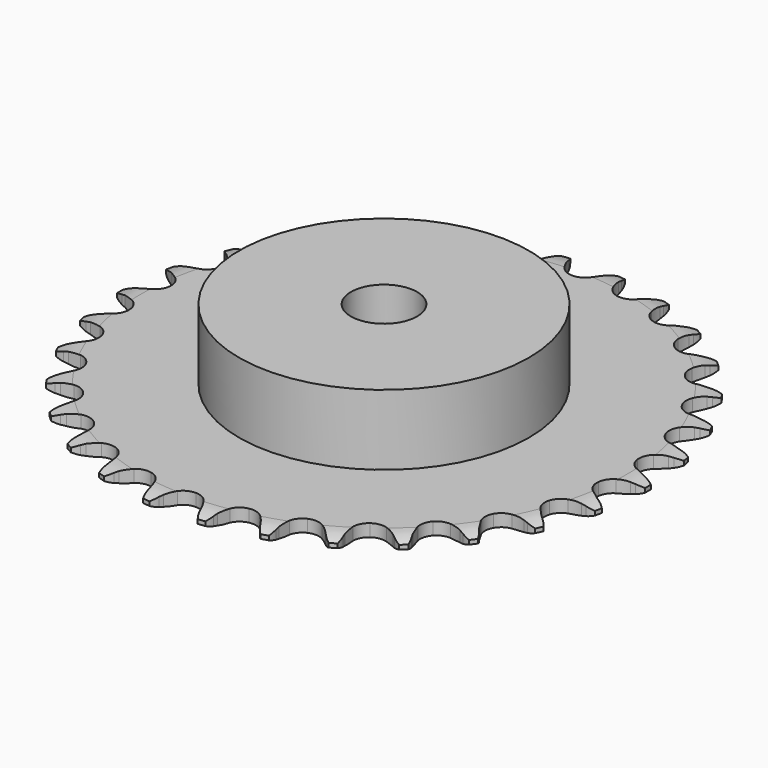
from build123d import *

# Parameters (mm, degrees)
PAD_DEPTH         = 3
SKETCH001_R       = 35
PAD001_DEPTH      = 20
SKETCH002_R       = 8
POCKET_DEPTH      = 0.0010001
POCKET_DEPTH_BACK = 20.001


with BuildPart() as part:
    # Sprocket → Pad (new body)
    with BuildSketch(Plane.XY):
        with BuildLine():
            ThreePointArc((-6.7776041953, 64.484596441), (-5.6654180492, 63.2960334738), (-4.8942777403, 61.862512433))
            Line((-4.8942777403, 61.862512433), (-4.5163646283, 60.8711255593))
            ThreePointArc((-4.5163646283, 60.8711255593), (-3.9162319, 59.5782502701), (-3.1406141774, 58.3823811496))
            ThreePointArc((-3.1406141774, 58.3823811496), (-1.7546617451, 57.2296966791), (0, 56.8165286828))
            ThreePointArc((0, 56.8165286828), (1.7546617451, 57.2296966791), (3.1406141774, 58.3823811496))
            ThreePointArc((3.1406141774, 58.3823811496), (3.9162319, 59.5782502701), (4.5163646283, 60.8711255593))
            Line((4.5163646283, 60.8711255593), (4.8942777403, 61.862512433))
            ThreePointArc((4.8942777403, 61.862512433), (5.6654180492, 63.2960334738), (6.7776041953, 64.484596441))
            ThreePointArc((6.7776041953, 64.484596441), (7.6183702696, 63.0907699242), (8.0746135292, 61.528245672))
            Line((8.0746135292, 61.528245672), (8.2381474118, 60.479950426))
            ThreePointArc((8.2381474118, 60.479950426), (8.5563619127, 59.0905529536), (9.0663953564, 57.7595564504))
            ThreePointArc((9.0663953564, 57.7595564504), (10.1824048255, 56.3439051876), (11.8128205448, 55.5749512131))
            ThreePointArc((11.8128205448, 55.5749512131), (13.6150411776, 55.6142758072), (15.2103638012, 56.4536156428))
            Line((15.2103638012, 56.4536156428), (17.0734898622, 58.6019404136))
            ThreePointArc((17.0734898622, 58.6019404136), (17.3497056492, 59.0550568579), (17.6492655872, 59.4930905514))
            ThreePointArc((17.6492655872, 59.4930905514), (18.7016004136, 60.7349566326), (20.0365987601, 61.6663101451))
            ThreePointArc((20.0365987601, 61.6663101451), (20.5691992506, 60.1281369857), (20.6906054412, 58.5048993299))
            Line((20.6906054412, 58.5048993299), (20.632612879, 57.4455112441))
            ThreePointArc((20.632612879, 57.4455112441), (20.6550016519, 56.020314925), (20.8771599076, 54.6123619733))
            ThreePointArc((20.8771599076, 54.6123619733), (21.6744514446, 52.9956146714), (23.1093641476, 51.9044816972))
            ThreePointArc((23.1093641476, 51.9044816972), (24.8803779785, 51.5682442155), (26.6153475395, 52.0575562379))
            Line((26.6153475395, 52.0575562379), (28.8844216614, 53.7715692685))
            ThreePointArc((28.8844216614, 53.7715692685), (29.2488096769, 54.15735554), (29.6328958373, 54.5235351332))
            ThreePointArc((29.6328958373, 54.5235351332), (30.9204330997, 55.5194707478), (32.4198978128, 56.152910188))
            ThreePointArc((32.4198978128, 56.152910188), (32.6210555225, 54.5376159342), (32.4023186108, 52.9246081494))
            Line((32.4023186108, 52.9246081494), (32.1253341571, 51.9004275667))
            ThreePointArc((32.1253341571, 51.9004275667), (31.8509187051, 50.501720319), (31.7754923912, 49.0783452187))
            ThreePointArc((31.7754923912, 49.0783452187), (32.21922053, 47.3311614929), (33.3959176462, 45.9655372657))
            ThreePointArc((33.3959176462, 45.9655372657), (35.0583228723, 45.2684328998), (36.8571128757, 45.3863318255))
            Line((36.8571128757, 45.3863318255), (39.4329656313, 46.5911225217))
            ThreePointArc((39.4329656313, 46.5911225217), (39.8696003703, 46.8927179092), (40.3214263449, 47.1710395967))
            ThreePointArc((40.3214263449, 47.1710395967), (41.7878944866, 47.8775175794), (43.3862917632, 48.1853586042))
            ThreePointArc((43.3862917632, 48.1853586042), (43.2472151348, 46.5635393659), (42.6978949736, 45.0312576323))
            Line((42.6978949736, 45.0312576323), (42.2140241781, 44.0870461587))
            ThreePointArc((42.2140241781, 44.0870461587), (41.6547977733, 42.7759582009), (41.2850833815, 41.399369274))
            ThreePointArc((41.2850833815, 41.399369274), (41.3558550733, 39.598109437), (42.2229092922, 38.0176782887))
            ThreePointArc((42.2229092922, 38.0176782887), (43.7040508282, 36.9901738443), (45.4880455192, 36.7315069246))
            Line((45.4880455192, 36.7315069246), (48.2580997826, 37.3744201518))
            ThreePointArc((48.2580997826, 37.3744201518), (48.7478982119, 37.5786434896), (49.2477170376, 37.756943278))
            ThreePointArc((49.2477170376, 37.756943278), (50.8290243638, 38.143087151), (52.456496573, 38.1118756304))
            ThreePointArc((52.456496573, 38.1118756304), (51.9832639225, 36.5544126906), (51.1273684388, 35.1698250727))
            Line((51.1273684388, 35.1698250727), (50.4577587772, 34.3468492805))
            ThreePointArc((50.4577587772, 34.3468492805), (49.6381622969, 33.1806814475), (48.9903181203, 31.9110422359))
            ThreePointArc((48.9903181203, 31.9110422359), (48.6850403024, 30.1344299859), (49.2045571941, 28.4082643414))
            ThreePointArc((49.2045571941, 28.4082643414), (50.4397020476, 27.0952666932), (52.1309322977, 26.4713389137))
            Line((52.1309322977, 26.4713389137), (54.9741234054, 26.5242762788))
            ThreePointArc((54.9741234054, 26.5242762788), (55.4956789834, 26.6222020271), (56.021646179, 26.6926873602))
            ThreePointArc((56.021646179, 26.6926873602), (57.6486819717, 26.7416207832), (59.2341007683, 26.3727208105))
            ThreePointArc((59.2341007683, 26.3727208105), (58.4473946334, 24.9476827732), (57.3223305669, 23.771302394))
            Line((57.3223305669, 23.771302394), (56.4962471945, 23.1055302742))
            ThreePointArc((56.4962471945, 23.1055302742), (55.4521009378, 22.1352496964), (54.5544408756, 21.0280495259))
            ThreePointArc((54.5544408756, 21.0280495259), (53.8864556537, 19.3537313434), (54.035729837, 17.5572729244))
            ThreePointArc((54.035729837, 17.5572729244), (54.9708962509, 16.0161663702), (56.4954471827, 15.0542463687))
            Line((56.4954471827, 15.0542463687), (59.2875140403, 14.5148942549))
            ThreePointArc((59.2875140403, 14.5148942549), (59.8180322854, 14.5022425886), (60.3471605607, 14.4618329191))
            ThreePointArc((60.3471605607, 14.4618329191), (61.9488155483, 14.1714172667), (63.4228905233, 13.4809515408))
            ThreePointArc((63.4228905233, 13.4809515408), (62.3570937372, 12.2506194063), (61.0120317861, 11.3338597332))
            Line((61.0120317861, 11.3338597332), (60.0655785103, 10.8543887224))
            ThreePointArc((60.0655785103, 10.8543887224), (58.842516679, 10.1224013168), (57.7342727833, 9.2260301478))
            ThreePointArc((57.7342727833, 9.2260301478), (56.7327743169, 7.7271817716), (56.5052817938, 5.9389444314))
            ThreePointArc((56.5052817938, 5.9389444314), (57.0995985084, 4.2370827227), (58.3908399307, 2.9792110192))
            Line((58.3908399307, 2.9792110192), (61.0097558186, 1.8711417018))
            ThreePointArc((61.0097558186, 1.8711417018), (61.5260505379, 1.7484655594), (62.0352144481, 1.5989269838))
            ThreePointArc((62.0352144481, 1.5989269838), (63.5414886221, 0.9818548136), (64.8397956257, 0))
            ThreePointArc((64.8397956257, 0), (63.5414886221, -0.9818548136), (62.0352144481, -1.5989269838))
            Line((62.0352144481, -1.5989269838), (61.0097558186, -1.8711417018))
            ThreePointArc((61.0097558186, -1.8711417018), (59.6612320836, -2.332844573), (58.3908399307, -2.9792110192))
            ThreePointArc((58.3908399307, -2.9792110192), (57.0995985084, -4.2370827227), (56.5052817938, -5.9389444314))
            ThreePointArc((56.5052817938, -5.9389444314), (56.7327743169, -7.7271817716), (57.7342727833, -9.2260301478))
            Line((57.7342727833, -9.2260301478), (60.0655785103, -10.8543887224))
            ThreePointArc((60.0655785103, -10.8543887224), (60.545085147, -11.0817278048), (61.0120317861, -11.3338597332))
            ThreePointArc((61.0120317861, -11.3338597332), (62.3570937372, -12.2506194063), (63.4228905233, -13.4809515408))
            ThreePointArc((63.4228905233, -13.4809515408), (61.9488155483, -14.1714172667), (60.3471605607, -14.4618329191))
            Line((60.3471605607, -14.4618329191), (59.2875140403, -14.5148942549))
            ThreePointArc((59.2875140403, -14.5148942549), (57.8724653598, -14.6861339608), (56.4954471827, -15.0542463687))
            ThreePointArc((56.4954471827, -15.0542463687), (54.9708962509, -16.0161663702), (54.035729837, -17.5572729244))
            ThreePointArc((54.035729837, -17.5572729244), (53.8864556537, -19.3537313434), (54.5544408756, -21.0280495259))
            Line((54.5544408756, -21.0280495259), (56.4962471945, -23.1055302742))
            ThreePointArc((56.4962471945, -23.1055302742), (56.9180090077, -23.4275964879), (57.3223305669, -23.771302394))
            ThreePointArc((57.3223305669, -23.771302394), (58.4473946334, -24.9476827732), (59.2341007683, -26.3727208105))
            ThreePointArc((59.2341007683, -26.3727208105), (57.6486819717, -26.7416207832), (56.021646179, -26.6926873602))
            Line((56.021646179, -26.6926873602), (54.9741234054, -26.5242762788))
            ThreePointArc((54.9741234054, -26.5242762788), (53.5543941969, -26.3975688225), (52.1309322977, -26.4713389137))
            ThreePointArc((52.1309322977, -26.4713389137), (50.4397020476, -27.0952666932), (49.2045571941, -28.4082643414))
            ThreePointArc((49.2045571941, -28.4082643414), (48.6850403024, -30.1344299859), (48.9903181203, -31.9110422359))
            Line((48.9903181203, -31.9110422359), (50.4577587772, -34.3468492805))
            ThreePointArc((50.4577587772, -34.3468492805), (50.8033427519, -34.7495667863), (51.1273684388, -35.1698250727))
            ThreePointArc((51.1273684388, -35.1698250727), (51.9832639225, -36.5544126906), (52.456496573, -38.1118756304))
            ThreePointArc((52.456496573, -38.1118756304), (50.8290243638, -38.143087151), (49.2477170376, -37.756943278))
            Line((49.2477170376, -37.756943278), (48.2580997826, -37.3744201518))
            ThreePointArc((48.2580997826, -37.3744201518), (46.8957390251, -36.9553032572), (45.4880455192, -36.7315069246))
            ThreePointArc((45.4880455192, -36.7315069246), (43.7040508282, -36.9901738443), (42.2229092922, -38.0176782887))
            ThreePointArc((42.2229092922, -38.0176782887), (41.3558550733, -39.598109437), (41.2850833815, -41.399369274))
            Line((41.2850833815, -41.399369274), (42.2140241781, -44.0870461587))
            ThreePointArc((42.2140241781, -44.0870461587), (42.4683266363, -44.5528142693), (42.6978949736, -45.0312576323))
            ThreePointArc((42.6978949736, -45.0312576323), (43.2472151348, -46.5635393659), (43.3862917632, -48.1853586042))
            ThreePointArc((43.3862917632, -48.1853586042), (41.7878944866, -47.8775175794), (40.3214263449, -47.1710395967))
            Line((40.3214263449, -47.1710395967), (39.4329656313, -46.5911225217))
            ThreePointArc((39.4329656313, -46.5911225217), (38.1875150271, -45.8979136083), (36.8571128757, -45.3863318255))
            ThreePointArc((36.8571128757, -45.3863318255), (35.0583228723, -45.2684328998), (33.3959176462, -45.9655372657))
            ThreePointArc((33.3959176462, -45.9655372657), (32.21922053, -47.3311614929), (31.7754923912, -49.0783452187))
            Line((31.7754923912, -49.0783452187), (32.1253341571, -51.9004275667))
            ThreePointArc((32.1253341571, -51.9004275667), (32.277240861, -52.4088899806), (32.4023186108, -52.9246081494))
            ThreePointArc((32.4023186108, -52.9246081494), (32.6210555225, -54.5376159342), (32.4198978128, -56.152910188))
            ThreePointArc((32.4198978128, -56.152910188), (30.9204330997, -55.5194707478), (29.6328958373, -54.5235351332))
            Line((29.6328958373, -54.5235351332), (28.8844216614, -53.7715692685))
            ThreePointArc((28.8844216614, -53.7715692685), (27.8103133785, -52.834564892), (26.6153475395, -52.0575562379))
            ThreePointArc((26.6153475395, -52.0575562379), (24.8803779785, -51.5682442155), (23.1093641476, -51.9044816972))
            ThreePointArc((23.1093641476, -51.9044816972), (21.6744514446, -52.9956146714), (20.8771599076, -54.6123619733))
            Line((20.8771599076, -54.6123619733), (20.632612879, -57.4455112441))
            ThreePointArc((20.632612879, -57.4455112441), (20.6754847767, -57.974445714), (20.6906054412, -58.5048993299))
            ThreePointArc((20.6906054412, -58.5048993299), (20.5691992506, -60.1281369857), (20.0365987601, -61.6663101451))
            ThreePointArc((20.0365987601, -61.6663101451), (18.7016004136, -60.7349566326), (17.6492655872, -59.4930905514))
            Line((17.6492655872, -59.4930905514), (17.0734898622, -58.6019404136))
            ThreePointArc((17.0734898622, -58.6019404136), (16.2176675865, -57.4620921616), (15.2103638012, -56.4536156428))
            ThreePointArc((15.2103638012, -56.4536156428), (13.6150411776, -55.6142758072), (11.8128205448, -55.5749512131))
            ThreePointArc((11.8128205448, -55.5749512131), (10.1824048255, -56.3439051876), (9.0663953564, -57.7595564504))
            Line((9.0663953564, -57.7595564504), (8.2381474118, -60.479950426))
            ThreePointArc((8.2381474118, -60.479950426), (8.1701107958, -61.0062399774), (8.0746135292, -61.528245672))
            ThreePointArc((8.0746135292, -61.528245672), (7.6183702696, -63.0907699242), (6.7776041953, -64.484596441))
            ThreePointArc((6.7776041953, -64.484596441), (5.6654180492, -63.2960334738), (4.8942777403, -61.862512433))
            Line((4.8942777403, -61.862512433), (4.5163646283, -60.8711255593))
            ThreePointArc((4.5163646283, -60.8711255593), (3.9162319, -59.5782502701), (3.1406141774, -58.3823811496))
            ThreePointArc((3.1406141774, -58.3823811496), (1.7546617451, -57.2296966791), (0, -56.8165286828))
            ThreePointArc((0, -56.8165286828), (-1.7546617451, -57.2296966791), (-3.1406141774, -58.3823811496))
            Line((-3.1406141774, -58.3823811496), (-4.5163646283, -60.8711255593))
            ThreePointArc((-4.5163646283, -60.8711255593), (-4.6923362315, -61.3717688134), (-4.8942777403, -61.862512433))
            ThreePointArc((-4.8942777403, -61.862512433), (-5.6654180492, -63.2960334738), (-6.7776041953, -64.484596441))
            ThreePointArc((-6.7776041953, -64.484596441), (-7.6183702696, -63.0907699242), (-8.0746135292, -61.528245672))
            Line((-8.0746135292, -61.528245672), (-8.2381474118, -60.479950426))
            ThreePointArc((-8.2381474118, -60.479950426), (-8.5563619127, -59.0905529536), (-9.0663953564, -57.7595564504))
            ThreePointArc((-9.0663953564, -57.7595564504), (-10.1824048255, -56.3439051876), (-11.8128205448, -55.5749512131))
            ThreePointArc((-11.8128205448, -55.5749512131), (-13.6150411776, -55.6142758072), (-15.2103638012, -56.4536156428))
            Line((-15.2103638012, -56.4536156428), (-17.0734898622, -58.6019404136))
            ThreePointArc((-17.0734898622, -58.6019404136), (-17.3497056492, -59.0550568579), (-17.6492655872, -59.4930905514))
            ThreePointArc((-17.6492655872, -59.4930905514), (-18.7016004136, -60.7349566326), (-20.0365987601, -61.6663101451))
            ThreePointArc((-20.0365987601, -61.6663101451), (-20.5691992506, -60.1281369857), (-20.6906054412, -58.5048993299))
            Line((-20.6906054412, -58.5048993299), (-20.632612879, -57.4455112441))
            ThreePointArc((-20.632612879, -57.4455112441), (-20.6550016519, -56.020314925), (-20.8771599076, -54.6123619733))
            ThreePointArc((-20.8771599076, -54.6123619733), (-21.6744514446, -52.9956146714), (-23.1093641476, -51.9044816972))
            ThreePointArc((-23.1093641476, -51.9044816972), (-24.8803779785, -51.5682442155), (-26.6153475395, -52.0575562379))
            Line((-26.6153475395, -52.0575562379), (-28.8844216614, -53.7715692685))
            ThreePointArc((-28.8844216614, -53.7715692685), (-29.2488096769, -54.15735554), (-29.6328958373, -54.5235351332))
            ThreePointArc((-29.6328958373, -54.5235351332), (-30.9204330997, -55.5194707478), (-32.4198978128, -56.152910188))
            ThreePointArc((-32.4198978128, -56.152910188), (-32.6210555225, -54.5376159342), (-32.4023186108, -52.9246081494))
            Line((-32.4023186108, -52.9246081494), (-32.1253341571, -51.9004275667))
            ThreePointArc((-32.1253341571, -51.9004275667), (-31.8509187051, -50.501720319), (-31.7754923912, -49.0783452187))
            ThreePointArc((-31.7754923912, -49.0783452187), (-32.21922053, -47.3311614929), (-33.3959176462, -45.9655372657))
            ThreePointArc((-33.3959176462, -45.9655372657), (-35.0583228723, -45.2684328998), (-36.8571128757, -45.3863318255))
            Line((-36.8571128757, -45.3863318255), (-39.4329656313, -46.5911225217))
            ThreePointArc((-39.4329656313, -46.5911225217), (-39.8696003703, -46.8927179092), (-40.3214263449, -47.1710395967))
            ThreePointArc((-40.3214263449, -47.1710395967), (-41.7878944866, -47.8775175794), (-43.3862917632, -48.1853586042))
            ThreePointArc((-43.3862917632, -48.1853586042), (-43.2472151348, -46.5635393659), (-42.6978949736, -45.0312576323))
            Line((-42.6978949736, -45.0312576323), (-42.2140241781, -44.0870461587))
            ThreePointArc((-42.2140241781, -44.0870461587), (-41.6547977733, -42.7759582009), (-41.2850833815, -41.399369274))
            ThreePointArc((-41.2850833815, -41.399369274), (-41.3558550733, -39.598109437), (-42.2229092922, -38.0176782887))
            ThreePointArc((-42.2229092922, -38.0176782887), (-43.7040508282, -36.9901738443), (-45.4880455192, -36.7315069246))
            Line((-45.4880455192, -36.7315069246), (-48.2580997826, -37.3744201518))
            ThreePointArc((-48.2580997826, -37.3744201518), (-48.7478982119, -37.5786434896), (-49.2477170376, -37.756943278))
            ThreePointArc((-49.2477170376, -37.756943278), (-50.8290243638, -38.143087151), (-52.456496573, -38.1118756304))
            ThreePointArc((-52.456496573, -38.1118756304), (-51.9832639225, -36.5544126906), (-51.1273684388, -35.1698250727))
            Line((-51.1273684388, -35.1698250727), (-50.4577587772, -34.3468492805))
            ThreePointArc((-50.4577587772, -34.3468492805), (-49.6381622969, -33.1806814475), (-48.9903181203, -31.9110422359))
            ThreePointArc((-48.9903181203, -31.9110422359), (-48.6850403024, -30.1344299859), (-49.2045571941, -28.4082643414))
            ThreePointArc((-49.2045571941, -28.4082643414), (-50.4397020476, -27.0952666932), (-52.1309322977, -26.4713389137))
            Line((-52.1309322977, -26.4713389137), (-54.9741234054, -26.5242762788))
            ThreePointArc((-54.9741234054, -26.5242762788), (-55.4956789834, -26.6222020271), (-56.021646179, -26.6926873602))
            ThreePointArc((-56.021646179, -26.6926873602), (-57.6486819717, -26.7416207832), (-59.2341007683, -26.3727208105))
            ThreePointArc((-59.2341007683, -26.3727208105), (-58.4473946334, -24.9476827732), (-57.3223305669, -23.771302394))
            Line((-57.3223305669, -23.771302394), (-56.4962471945, -23.1055302742))
            ThreePointArc((-56.4962471945, -23.1055302742), (-55.4521009378, -22.1352496964), (-54.5544408756, -21.0280495259))
            ThreePointArc((-54.5544408756, -21.0280495259), (-53.8864556537, -19.3537313434), (-54.035729837, -17.5572729244))
            ThreePointArc((-54.035729837, -17.5572729244), (-54.9708962509, -16.0161663702), (-56.4954471827, -15.0542463687))
            Line((-56.4954471827, -15.0542463687), (-59.2875140403, -14.5148942549))
            ThreePointArc((-59.2875140403, -14.5148942549), (-59.8180322854, -14.5022425886), (-60.3471605607, -14.4618329191))
            ThreePointArc((-60.3471605607, -14.4618329191), (-61.9488155483, -14.1714172667), (-63.4228905233, -13.4809515408))
            ThreePointArc((-63.4228905233, -13.4809515408), (-62.3570937372, -12.2506194063), (-61.0120317861, -11.3338597332))
            Line((-61.0120317861, -11.3338597332), (-60.0655785103, -10.8543887224))
            ThreePointArc((-60.0655785103, -10.8543887224), (-58.842516679, -10.1224013168), (-57.7342727833, -9.2260301478))
            ThreePointArc((-57.7342727833, -9.2260301478), (-56.7327743169, -7.7271817716), (-56.5052817938, -5.9389444314))
            ThreePointArc((-56.5052817938, -5.9389444314), (-57.0995985084, -4.2370827227), (-58.3908399307, -2.9792110192))
            Line((-58.3908399307, -2.9792110192), (-61.0097558186, -1.8711417018))
            ThreePointArc((-61.0097558186, -1.8711417018), (-61.5260505379, -1.7484655594), (-62.0352144481, -1.5989269838))
            ThreePointArc((-62.0352144481, -1.5989269838), (-63.5414886221, -0.9818548136), (-64.8397956257, 0))
            ThreePointArc((-64.8397956257, 0), (-63.5414886221, 0.9818548136), (-62.0352144481, 1.5989269838))
            Line((-62.0352144481, 1.5989269838), (-61.0097558186, 1.8711417018))
            ThreePointArc((-61.0097558186, 1.8711417018), (-59.6612320836, 2.332844573), (-58.3908399307, 2.9792110192))
            ThreePointArc((-58.3908399307, 2.9792110192), (-57.0995985084, 4.2370827227), (-56.5052817938, 5.9389444314))
            ThreePointArc((-56.5052817938, 5.9389444314), (-56.7327743169, 7.7271817716), (-57.7342727833, 9.2260301478))
            Line((-57.7342727833, 9.2260301478), (-60.0655785103, 10.8543887224))
            ThreePointArc((-60.0655785103, 10.8543887224), (-60.545085147, 11.0817278048), (-61.0120317861, 11.3338597332))
            ThreePointArc((-61.0120317861, 11.3338597332), (-62.3570937372, 12.2506194063), (-63.4228905233, 13.4809515408))
            ThreePointArc((-63.4228905233, 13.4809515408), (-61.9488155483, 14.1714172667), (-60.3471605607, 14.4618329191))
            Line((-60.3471605607, 14.4618329191), (-59.2875140403, 14.5148942549))
            ThreePointArc((-59.2875140403, 14.5148942549), (-57.8724653598, 14.6861339608), (-56.4954471827, 15.0542463687))
            ThreePointArc((-56.4954471827, 15.0542463687), (-54.9708962509, 16.0161663702), (-54.035729837, 17.5572729244))
            ThreePointArc((-54.035729837, 17.5572729244), (-53.8864556537, 19.3537313434), (-54.5544408756, 21.0280495259))
            Line((-54.5544408756, 21.0280495259), (-56.4962471945, 23.1055302742))
            ThreePointArc((-56.4962471945, 23.1055302742), (-56.9180090077, 23.4275964879), (-57.3223305669, 23.771302394))
            ThreePointArc((-57.3223305669, 23.771302394), (-58.4473946334, 24.9476827732), (-59.2341007683, 26.3727208105))
            ThreePointArc((-59.2341007683, 26.3727208105), (-57.6486819717, 26.7416207832), (-56.021646179, 26.6926873602))
            Line((-56.021646179, 26.6926873602), (-54.9741234054, 26.5242762788))
            ThreePointArc((-54.9741234054, 26.5242762788), (-53.5543941969, 26.3975688225), (-52.1309322977, 26.4713389137))
            ThreePointArc((-52.1309322977, 26.4713389137), (-50.4397020476, 27.0952666932), (-49.2045571941, 28.4082643414))
            ThreePointArc((-49.2045571941, 28.4082643414), (-48.6850403024, 30.1344299859), (-48.9903181203, 31.9110422359))
            Line((-48.9903181203, 31.9110422359), (-50.4577587772, 34.3468492805))
            ThreePointArc((-50.4577587772, 34.3468492805), (-50.8033427519, 34.7495667863), (-51.1273684388, 35.1698250727))
            ThreePointArc((-51.1273684388, 35.1698250727), (-51.9832639225, 36.5544126906), (-52.456496573, 38.1118756304))
            ThreePointArc((-52.456496573, 38.1118756304), (-50.8290243638, 38.143087151), (-49.2477170376, 37.756943278))
            Line((-49.2477170376, 37.756943278), (-48.2580997826, 37.3744201518))
            ThreePointArc((-48.2580997826, 37.3744201518), (-46.8957390251, 36.9553032572), (-45.4880455192, 36.7315069246))
            ThreePointArc((-45.4880455192, 36.7315069246), (-43.7040508282, 36.9901738443), (-42.2229092922, 38.0176782887))
            ThreePointArc((-42.2229092922, 38.0176782887), (-41.3558550733, 39.598109437), (-41.2850833815, 41.399369274))
            Line((-41.2850833815, 41.399369274), (-42.2140241781, 44.0870461587))
            ThreePointArc((-42.2140241781, 44.0870461587), (-42.4683266363, 44.5528142693), (-42.6978949736, 45.0312576323))
            ThreePointArc((-42.6978949736, 45.0312576323), (-43.2472151348, 46.5635393659), (-43.3862917632, 48.1853586042))
            ThreePointArc((-43.3862917632, 48.1853586042), (-41.7878944866, 47.8775175794), (-40.3214263449, 47.1710395967))
            Line((-40.3214263449, 47.1710395967), (-39.4329656313, 46.5911225217))
            ThreePointArc((-39.4329656313, 46.5911225217), (-38.1875150271, 45.8979136083), (-36.8571128757, 45.3863318255))
            ThreePointArc((-36.8571128757, 45.3863318255), (-35.0583228723, 45.2684328998), (-33.3959176462, 45.9655372657))
            ThreePointArc((-33.3959176462, 45.9655372657), (-32.21922053, 47.3311614929), (-31.7754923912, 49.0783452187))
            Line((-31.7754923912, 49.0783452187), (-32.1253341571, 51.9004275667))
            ThreePointArc((-32.1253341571, 51.9004275667), (-32.277240861, 52.4088899806), (-32.4023186108, 52.9246081494))
            ThreePointArc((-32.4023186108, 52.9246081494), (-32.6210555225, 54.5376159342), (-32.4198978128, 56.152910188))
            ThreePointArc((-32.4198978128, 56.152910188), (-30.9204330997, 55.5194707478), (-29.6328958373, 54.5235351332))
            Line((-29.6328958373, 54.5235351332), (-28.8844216614, 53.7715692685))
            ThreePointArc((-28.8844216614, 53.7715692685), (-27.8103133785, 52.834564892), (-26.6153475395, 52.0575562379))
            ThreePointArc((-26.6153475395, 52.0575562379), (-24.8803779785, 51.5682442155), (-23.1093641476, 51.9044816972))
            ThreePointArc((-23.1093641476, 51.9044816972), (-21.6744514446, 52.9956146714), (-20.8771599076, 54.6123619733))
            Line((-20.8771599076, 54.6123619733), (-20.632612879, 57.4455112441))
            ThreePointArc((-20.632612879, 57.4455112441), (-20.6754847767, 57.974445714), (-20.6906054412, 58.5048993299))
            ThreePointArc((-20.6906054412, 58.5048993299), (-20.5691992506, 60.1281369857), (-20.0365987601, 61.6663101451))
            ThreePointArc((-20.0365987601, 61.6663101451), (-18.7016004136, 60.7349566326), (-17.6492655872, 59.4930905514))
            Line((-17.6492655872, 59.4930905514), (-17.0734898622, 58.6019404136))
            ThreePointArc((-17.0734898622, 58.6019404136), (-16.2176675865, 57.4620921616), (-15.2103638012, 56.4536156428))
            ThreePointArc((-15.2103638012, 56.4536156428), (-13.6150411776, 55.6142758072), (-11.8128205448, 55.5749512131))
            ThreePointArc((-11.8128205448, 55.5749512131), (-10.1824048255, 56.3439051876), (-9.0663953564, 57.7595564504))
            Line((-9.0663953564, 57.7595564504), (-8.2381474118, 60.479950426))
            ThreePointArc((-8.2381474118, 60.479950426), (-8.1701107958, 61.0062399774), (-8.0746135292, 61.528245672))
            ThreePointArc((-8.0746135292, 61.528245672), (-7.6183702696, 63.0907699242), (-6.7776041953, 64.484596441))
        make_face()
    extrude(amount=PAD_DEPTH)

    # Sketch → Groove (revolve, cut)
    with BuildSketch(Plane.XZ):
        with BuildLine():
            Line((58.75, 0), (63.75, 0))
            Line((68.75, 0), (63.75, 0))
            Line((68.75, 3), (68.75, 0))
            Line((63.75, 3), (68.75, 3))
            Line((58.75, 3), (63.75, 3))
            ThreePointArc((63.75, 2), (61.2995097568, 2.747548784), (58.75, 3))
            Line((63.75, 1), (63.75, 2))
            ThreePointArc((58.75, 0), (61.2995097568, 0.252451216), (63.75, 1))
        make_face()
    revolve(axis=Axis((0, 0, 0), (0, 0, 1)), mode=Mode.SUBTRACT)

    # Sketch001 → Pad001 (join)
    with BuildSketch(Plane.XY):
        Circle(SKETCH001_R)
    extrude(amount=PAD001_DEPTH)

    # Sketch002 → Pocket (cut, two sides)
    with BuildSketch(Plane.XY) as pocket_sk:
        Circle(SKETCH002_R)
    extrude(amount=-POCKET_DEPTH, mode=Mode.SUBTRACT)
    extrude(pocket_sk.sketch, amount=POCKET_DEPTH_BACK, mode=Mode.SUBTRACT)


solid = part.part
